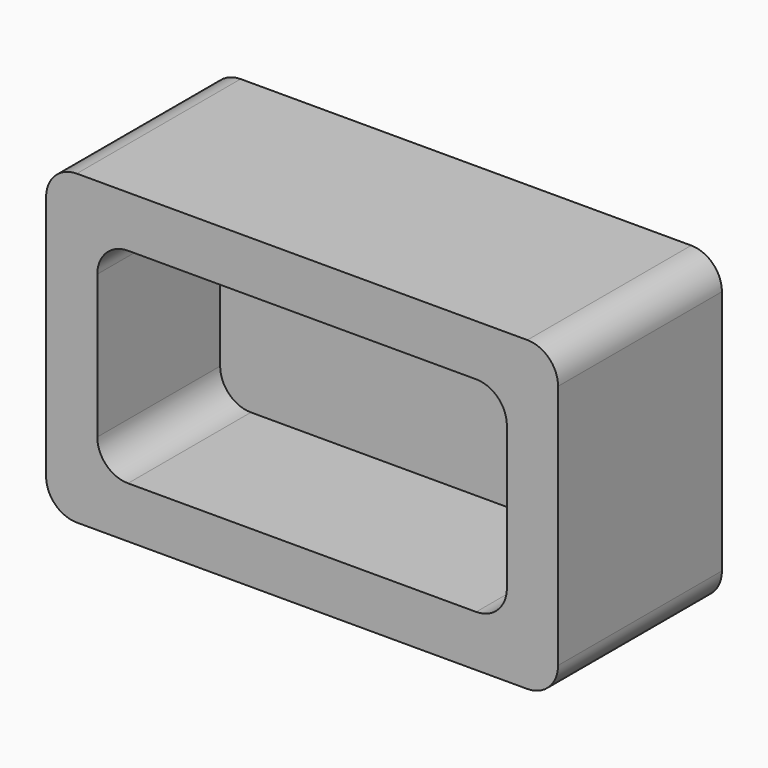
from build123d import *

# Parameters (mm, degrees)
F0_W     = 127
F0_H     = 76.2
F1_DEPTH = 50.8
F2_W     = 101.6
F2_H     = 50.8
F3_DEPTH = 38.1
F4_R     = 7.62


with BuildPart() as f1:
    # F0 (on Front) → F1 (new body)
    with BuildSketch(Plane.XZ):
        Rectangle(F0_W, F0_H)
    extrude(amount=-F1_DEPTH)

    # F2 (on face) → F3 (cut)
    with BuildSketch(Plane.XZ):
        Rectangle(F2_W, F2_H)
    extrude(amount=-F3_DEPTH, mode=Mode.SUBTRACT)

    # F4
    f4_edges = [f1.edges().sort_by_distance(p)[0] for p in [
        (-50.8, 19.05, 25.4),
        (50.8, 19.05, 25.4),
        (50.8, 19.05, -25.4),
        (-50.8, 19.05, -25.4),
        (-63.5, 25.4, -38.1),
        (63.5, 25.4, -38.1),
        (63.5, 25.4, 38.1),
        (-63.5, 25.4, 38.1),
    ]]
    fillet(f4_edges, radius=F4_R)


solid = f1.part
